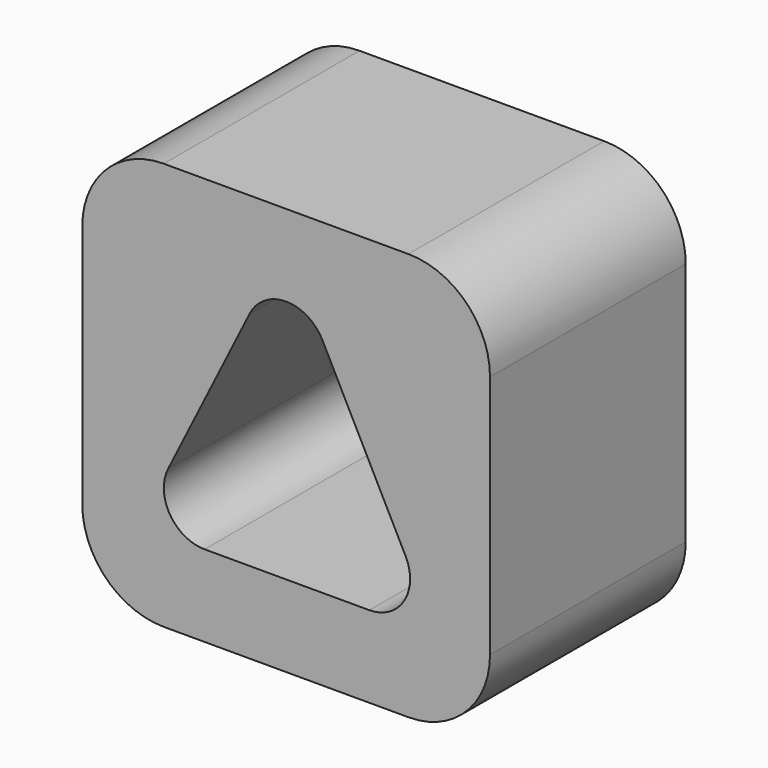
from build123d import *

# Parameters (mm, degrees)
F0_W     = 63.5
F0_H     = 63.5
F1_DEPTH = 38.1
F2_R     = 12.7


with BuildPart() as f1:
    # F0 (on Front) → F1 (new body)
    with BuildSketch(Plane.XZ):
        with Locations((31.75, 31.75)):
            Rectangle(F0_W, F0_H)
        with BuildLine():
            ThreePointArc((26.070387, 47.289806), (31.724702, 50.79995), (37.406805, 47.334971))
            Line((37.406805, 47.334971), (50.360805, 21.934971))
            ThreePointArc((50.360805, 21.934971), (50.11889, 15.733154), (44.704, 12.7))
            Line((44.704, 12.7), (19.05, 12.7))
            ThreePointArc((19.05, 12.7), (13.648367, 15.711607), (13.370387, 21.889806))
            Line((13.370387, 21.889806), (26.070387, 47.289806))
        make_face(mode=Mode.SUBTRACT)
    extrude(amount=F1_DEPTH)

    # F2
    f2_edges = [f1.edges().sort_by_distance(p)[0] for p in [
        (63.5, -19.05, 0),
        (63.5, -19.05, 63.5),
        (0, -19.05, 63.5),
        (0, -19.05, 0),
    ]]
    fillet(f2_edges, radius=F2_R)


solid = f1.part
